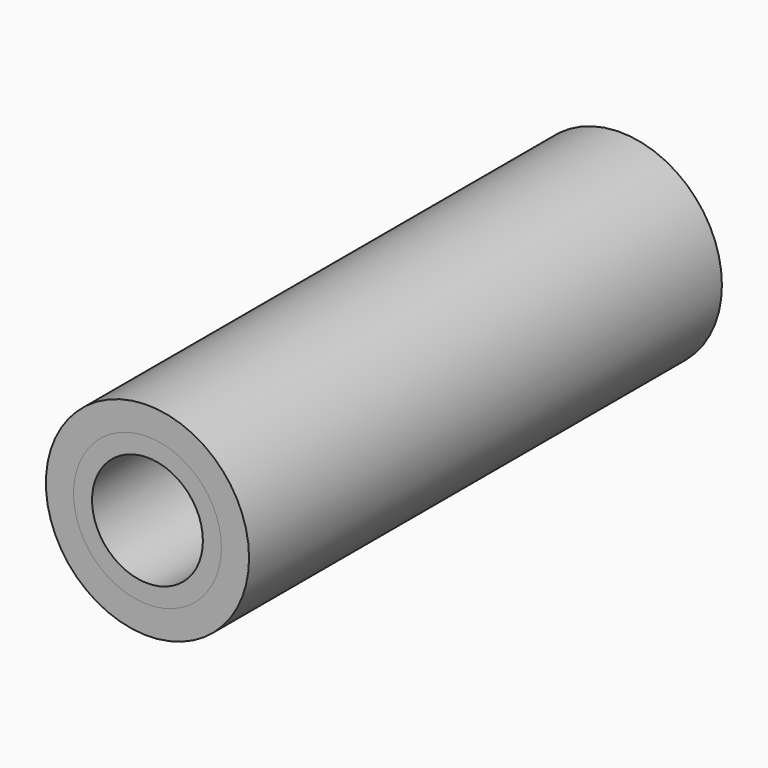
from build123d import *

# Parameters (mm, degrees)
F0_R     = 2.75
F0_R_2   = 1.5
F1_DEPTH = 16
F2_R     = 2
F2_R_2   = 1.5
F3_DEPTH = 16


with BuildPart() as f1:
    # F0 (on Front) → F1 (new body)
    with BuildSketch(Plane.XZ):
        Circle(F0_R)
        Circle(F0_R_2, mode=Mode.SUBTRACT)
    extrude(amount=F1_DEPTH)


with BuildPart() as f3:
    # F2 (on Front) → F3 (new body)
    with BuildSketch(Plane.XZ):
        Circle(F2_R)
        Circle(F2_R_2, mode=Mode.SUBTRACT)
    extrude(amount=F3_DEPTH)


solid = Compound([f1.part, f3.part])
